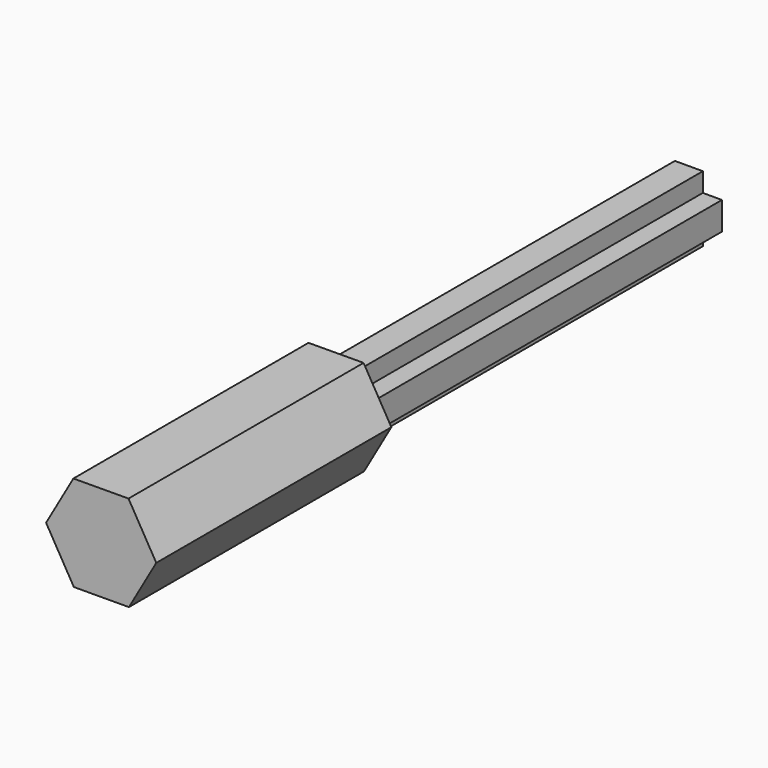
from build123d import *

# Parameters (mm, degrees)
F1_DEPTH = 20
F2_W     = 1.9
F2_H     = 1.3
F2_W_2   = 1.3
F2_H_2   = 1.9
F3_DEPTH = 30


with BuildPart() as f1:
    # F0 (on Front) → F1 (new body)
    with BuildSketch(Plane.XZ):
        Polygon((3.75, 0.0170362348), (1.8602461879, 3.2561133816), (-1.8897538121, 3.2390771468), (-3.75, -0.0170362348), (-1.8602461879, -3.2561133816), (1.8897538121, -3.2390771468), align=None)
    extrude(amount=F1_DEPTH)

    # F2 (on Front) → F3 (join)
    with BuildSketch(Plane.XZ):
        with Locations((0, 1.6)):
            Rectangle(F2_W, F2_H)
        with Locations((-1.6, 0)):
            Rectangle(F2_W_2, F2_H_2)
        Rectangle(F2_W, F2_H_2)
        with Locations((1.6, 0)):
            Rectangle(F2_W_2, F2_H_2)
        with Locations((0, -1.6)):
            Rectangle(F2_W, F2_H)
    extrude(amount=-F3_DEPTH)


solid = f1.part
